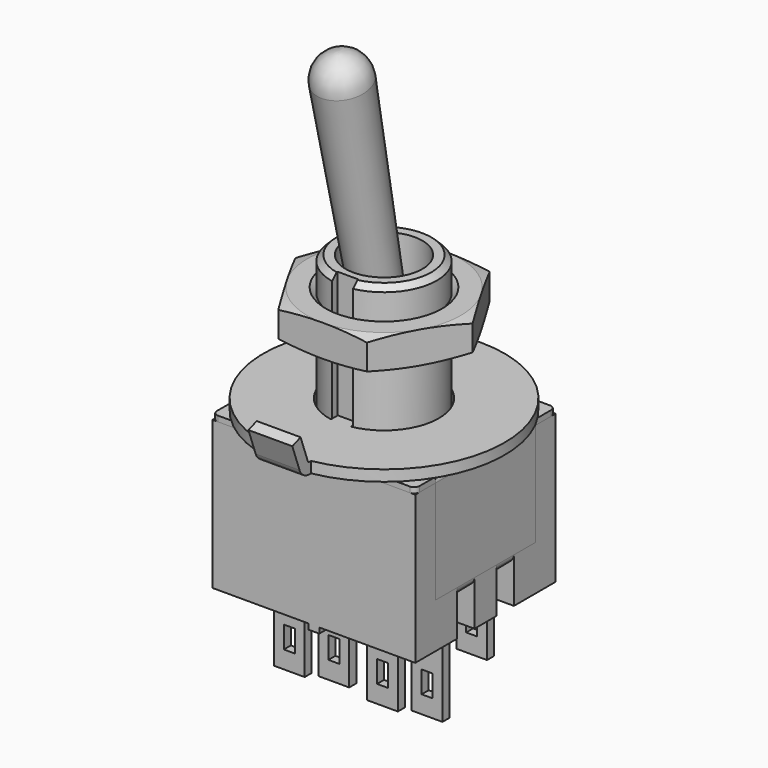
from build123d import *

# Parameters (mm, degrees)
SKETCH_W                = 9.25
SKETCH_H                = 8
PAD_DEPTH               = 6.75
SKETCH001_W             = 5.7
SKETCH001_H             = 4.7
POCKET_DEPTH            = 0.25
SKETCH002_W             = 5.7
SKETCH002_H             = 4.7
POCKET001_DEPTH         = 0.25
SKETCH003_W             = 1.5
SKETCH003_H             = 1
POCKET002_DEPTH         = 2.05
SKETCH004_W             = 0.5
SKETCH004_H             = 8
PAD001_DEPTH            = 0.25
SKETCH005_W             = 9.25
SKETCH005_H             = 8
PAD002_DEPTH            = 0.25
SKETCH006_W             = 0.25
SKETCH006_H             = 5.7
PAD003_DEPTH            = 4.95
PAD004_DEPTH            = 1.625
SKETCH008_W             = 9.25
SKETCH008_H             = 3.04331
POCKET003_DEPTH         = 0.625
SKETCH009_W             = 0.25
SKETCH009_H             = 0.01
POCKET004_DEPTH         = 5
FILLET_R                = 0.25
FILLET001_R             = 0.25
SKETCH010_R             = 2.41
PAD005_DEPTH            = 6.25
SKETCH011_R             = 1.75
POCKET005_DEPTH         = 12.441891
CHAMFER_SIZE            = 0.25
SKETCH015_W             = 0.95
SKETCH015_H             = 0.607852
POCKET006_DEPTH         = 6.25
SKETCH013_W             = 0.5
SKETCH013_H             = 1
PAD007_DEPTH            = 0.2
BODY004_PLACEMENT_ANGLE = 90
SKETCH012_W             = 0.5
SKETCH012_H             = 1
PAD006_DEPTH            = 0.2
BODY002_PLACEMENT_ANGLE = 270
BODY005_PLACEMENT_ANGLE = 12
SKETCH016_R             = 5.5
PAD008_DEPTH            = 0.5
PAD009_DEPTH            = 1
SKETCH019_R             = 7.613538
POCKET007_DEPTH         = 5
CHAMFER001_SIZE         = 0.25


with BuildPart() as body:
    # Sketch → Pad (new body)
    with BuildSketch(Plane.XY):
        Rectangle(SKETCH_W, SKETCH_H)
    extrude(amount=PAD_DEPTH)

    # Sketch001 (on Face2 of Pad) → Pocket (cut)
    with BuildSketch(Plane.YZ.offset(4.625)):
        with Locations((0, 4.4)):
            Rectangle(SKETCH001_W, SKETCH001_H)
    extrude(amount=-POCKET_DEPTH, mode=Mode.SUBTRACT)

    # Sketch002 (on Face2 of Pocket) → Pocket001 (cut)
    with BuildSketch(Plane(origin=(-4.625, 0, 0), x_dir=(0, -1, 0), z_dir=(-1, 0, 0))):
        with Locations((0, 4.4)):
            Rectangle(SKETCH002_W, SKETCH002_H)
    extrude(amount=-POCKET001_DEPTH, mode=Mode.SUBTRACT)

    # Sketch003 (on Face4 of Pocket001) → Pocket002 (cut)
    with BuildSketch(Plane(origin=(0, 0, 0), x_dir=(1, 0, 0), z_dir=(0, 0, -1))):
        with Locations((3.875, 1.125)):
            Rectangle(SKETCH003_W, SKETCH003_H)
        with Locations((3.875, -1.125)):
            Rectangle(SKETCH003_W, SKETCH003_H)
        with Locations((-3.875, 1.125)):
            Rectangle(SKETCH003_W, SKETCH003_H)
        with Locations((-3.875, -1.125)):
            Rectangle(SKETCH003_W, SKETCH003_H)
    extrude(amount=-POCKET002_DEPTH, mode=Mode.SUBTRACT)

    # Sketch004 (on Face4 of Pocket002) → Pad001 (join)
    with BuildSketch(Plane(origin=(0, 0, 0), x_dir=(1, 0, 0), z_dir=(0, 0, -1))):
        Rectangle(SKETCH004_W, SKETCH004_H)
    extrude(amount=PAD001_DEPTH)


with BuildPart() as body001:
    # Sketch005 → Pad002 (new body)
    with BuildSketch(Plane.XY):
        Rectangle(SKETCH005_W, SKETCH005_H)
    extrude(amount=PAD002_DEPTH)

    # Sketch006 (on Face6 of Pad002) → Pad003 (join)
    with BuildSketch(Plane.XY.offset(0.25)):
        with Locations((-4.5, 0)):
            Rectangle(SKETCH006_W, SKETCH006_H)
        with Locations((4.5, 0)):
            Rectangle(SKETCH006_W, SKETCH006_H)
    extrude(amount=-PAD003_DEPTH)

    # Sketch007 → Pad004 (join, symmetric)
    with BuildSketch(Plane.XZ):
        with BuildLine():
            ThreePointArc((-4.375, -4.7), (-4.365828, -4.741837), (-4.339993, -4.776))
            Line((-4.339993, -4.776), (-3.2, -5.750892))
            Line((-3.2, -5.750892), (-3.362482, -5.940891))
            Line((-3.362482, -5.940891), (-4.502475, -4.965998))
            ThreePointArc((-4.625, -4.7), (-4.592896, -4.84643), (-4.502475, -4.965998))
            Line((-4.625, -4.7), (-4.375, -4.7))
        make_face()
        with BuildLine():
            Line((4.339993, -4.776), (3.2, -5.750892))
            Line((3.2, -5.750892), (3.362482, -5.940891))
            Line((3.362482, -5.940891), (4.502475, -4.965998))
            ThreePointArc((4.502475, -4.965998), (4.592896, -4.84643), (4.625, -4.7))
            Line((4.625, -4.7), (4.375, -4.7))
            ThreePointArc((4.339993, -4.776), (4.365828, -4.741837), (4.375, -4.7))
        make_face()
    extrude(amount=PAD004_DEPTH, both=True)

    # Sketch008 → Pocket003 (cut, symmetric)
    with BuildSketch(Plane.XZ):
        with Locations((0, -6.221655)):
            Rectangle(SKETCH008_W, SKETCH008_H)
    extrude(amount=POCKET003_DEPTH, both=True, mode=Mode.SUBTRACT)

    # Sketch009 (on Face4 of Pocket003) → Pocket004 (cut)
    with BuildSketch(Plane(origin=(0, 0, 0), x_dir=(1, 0, 0), z_dir=(0, 0, -1))):
        with Locations((-4.5, 2.855)):
            Rectangle(SKETCH009_W, SKETCH009_H)
        with Locations((-4.5, -2.855)):
            Rectangle(SKETCH009_W, SKETCH009_H)
        with Locations((4.5, -2.855)):
            Rectangle(SKETCH009_W, SKETCH009_H)
        with Locations((4.5, 2.855)):
            Rectangle(SKETCH009_W, SKETCH009_H)
    extrude(amount=-POCKET004_DEPTH, mode=Mode.SUBTRACT)

    # Fillet
    fillet_edges = [body001.edges().sort_by_distance(p)[0] for p in [
        (-4.625, 0, 0.25),
        (4.625, 0, 0.25),
    ]]
    fillet(fillet_edges, radius=FILLET_R)

    # Fillet001
    fillet001_edges = [body001.edges().sort_by_distance(p)[0] for p in [
        (-4.625, -4, 0.125),
        (4.625, -4, 0.125),
        (-4.625, 4, 0.125),
        (4.625, 4, 0.125),
    ]]
    fillet(fillet001_edges, radius=FILLET001_R)

    # Sketch010 (on Face1 of Fillet001) → Pad005 (join)
    with BuildSketch(Plane.XY.offset(0.25)):
        Circle(SKETCH010_R)
    extrude(amount=PAD005_DEPTH)

    # Sketch011 (on Face30 of Pad005) → Pocket005 (cut, through all)
    with BuildSketch(Plane.XY.offset(6.5)):
        Circle(SKETCH011_R)
    extrude(amount=-POCKET005_DEPTH, mode=Mode.SUBTRACT)

    # Chamfer
    chamfer_edges = [body001.edges().sort_by_distance(p)[0] for p in [
        (-2.41, 0, 6.5),
    ]]
    chamfer(chamfer_edges, length=CHAMFER_SIZE)

    # Sketch015 (on Face4 of Chamfer) → Pocket006 (cut)
    with BuildSketch(Plane.XY.offset(6.5)):
        with Locations((0, -2.353926)):
            Rectangle(SKETCH015_W, SKETCH015_H)
    extrude(amount=-POCKET006_DEPTH, mode=Mode.SUBTRACT)


with BuildPart() as body001_1:
    # Body001 placement: moved
    add(body001.part.moved(Location((0, 0, 6.75))))


with BuildPart() as body004:
    # Sketch013 → Pad007 (new body, symmetric)
    with BuildSketch(Plane.YZ):
        Polygon((-1, 0), (1, 0), (1, -0.25), (0.7, -0.25), (0.7, -3.05), (-0.7, -3.05), (-0.7, -0.25), (-1, -0.25), align=None)
        with Locations((0, -1.75)):
            Rectangle(SKETCH013_W, SKETCH013_H, mode=Mode.SUBTRACT)
    extrude(amount=PAD007_DEPTH, both=True)


with BuildPart() as body004_1:
    # Body004 placement: moved
    add(body004.part.moved(Location((2.125, -2.54, 0))).rotate(Axis((2.125, -2.54, 0), (0, 0, -1)), BODY004_PLACEMENT_ANGLE))


with BuildPart() as part_mirroring:
    # Part__Mirroring: instance of Body004
    add(body004_1.part.mirror(Plane(origin=(0, 0, 0), x_dir=(1, 0, 0), z_dir=(0, 1, 0))))


with BuildPart() as fusion:
    # Sketch012 → Pad006 (new body, symmetric)
    with BuildSketch(Plane.YZ):
        Polygon((-1, 0), (1, 0), (1, -0.25), (0.7, -0.25), (0.7, -4.5), (-0.7, -4.5), (-0.7, -0.25), (-1, -0.25), align=None)
        with Locations((0, -3.2)):
            Rectangle(SKETCH012_W, SKETCH012_H, mode=Mode.SUBTRACT)
    extrude(amount=PAD006_DEPTH, both=True)


with BuildPart() as fusion_1:
    # Body002 placement: moved
    add(fusion.part.moved(Location((2.125, 0, 0))).rotate(Axis((2.125, 0, 0), (0, 0, 1)), BODY002_PLACEMENT_ANGLE))

    # Fusion: union Part__Mirroring, Body004
    add(part_mirroring.part)
    add(body004_1.part)


with BuildPart() as fusion001:
    # Part__Mirroring001: instance of Fusion
    add(fusion_1.part.mirror(Plane(origin=(0, 0, 0), x_dir=(0, -1, 0), z_dir=(1, 0, 0))))

    # Fusion001: union Fusion
    add(fusion_1.part)


with BuildPart() as body005:
    # Sketch014 → Revolution (revolve)
    with BuildSketch(Plane.YZ):
        with BuildLine():
            ThreePointArc((0, -1.75), (1.669693, -0.524049), (1, 1.436141))
            Line((1, 1.436141), (1.199763, 11.476129))
            ThreePointArc((1.199763, 11.476129), (0.856926, 12.340046), (0, 12.7))
            Line((0, 12.7), (0, -1.75))
        make_face()
    revolve(axis=Axis((0, 0, 0), (0, 0, 1)))


with BuildPart() as body005_1:
    # Body005 placement: moved
    add(body005.part.moved(Location((0, 0, 10))).rotate(Axis((0, 0, 10), (1, 0, 0)), BODY005_PLACEMENT_ANGLE))


with BuildPart() as body006:
    # Sketch016 → Pad008 (new body)
    with BuildSketch(Plane.XY):
        Circle(SKETCH016_R)
        with BuildLine():
            ThreePointArc((0.45, -2.459167), (0, 2.5), (-0.45, -2.459167))
            Line((-0.45, -2.459167), (-0.45, -2.07))
            Line((-0.45, -2.07), (0.45, -2.07))
            Line((0.45, -2.07), (0.45, -2.459167))
        make_face(mode=Mode.SUBTRACT)
    extrude(amount=PAD008_DEPTH)

    # Sketch017 → Pad009 (join, symmetric)
    with BuildSketch(Plane.YZ):
        with BuildLine():
            ThreePointArc((-6.063816, 0.394788), (-5.844146, 0.108509), (-5.5, 0))
            Line((-5.3, 0), (-5.5, 0))
            Line((-5.3, 0.5), (-5.3, 0))
            Line((-5.5, 0.5), (-5.3, 0.5))
            ThreePointArc((-5.593969, 0.565798), (-5.557358, 0.518085), (-5.5, 0.5))
            Line((-5.593969, 0.565798), (-6.004393, 1.693429))
            Line((-6.004393, 1.693429), (-6.47424, 1.522419))
            Line((-6.47424, 1.522419), (-6.063816, 0.394788))
        make_face()
    extrude(amount=PAD009_DEPTH, both=True)


with BuildPart() as body006_1:
    # Body006 placement: moved
    add(body006.part.moved(Location((0, 0, 7))))


with BuildPart() as body007:
    # Sketch018 → Revolution001 (revolve)
    with BuildSketch(Plane.YZ):
        Polygon((2.4, 0), (2.4, 1.45), (3.5, 1.45), (6.205737, 0.725), (3.5, 0), align=None)
    revolve(axis=Axis((0, 0, 0), (0, 0, 1)))

    # Sketch019 (on Face2 of Revolution001) → Pocket007 (cut)
    with BuildSketch(Plane(origin=(0, 0, 1.45), x_dir=(0, -1, 0), z_dir=(0, 0, 1))):
        Circle(SKETCH019_R)
        Polygon((0, 4.041452), (-3.5, 2.020726), (-3.5, -2.020726), (0, -4.041452), (3.5, -2.020726), (3.5, 2.020726), align=None, mode=Mode.SUBTRACT)
    extrude(amount=-POCKET007_DEPTH, mode=Mode.SUBTRACT)

    # Chamfer001
    chamfer001_edges = [body007.edges().sort_by_distance(p)[0] for p in [
        (0, -2.4, 1.45),
        (0, -2.4, 0),
    ]]
    chamfer(chamfer001_edges, length=CHAMFER001_SIZE)


with BuildPart() as body007_1:
    # Body007 placement: moved
    add(body007.part.moved(Location((0, 0, 10.5))))


solid = Compound([body.part, body001_1.part, fusion001.part, body005_1.part, body006_1.part, body007_1.part])
